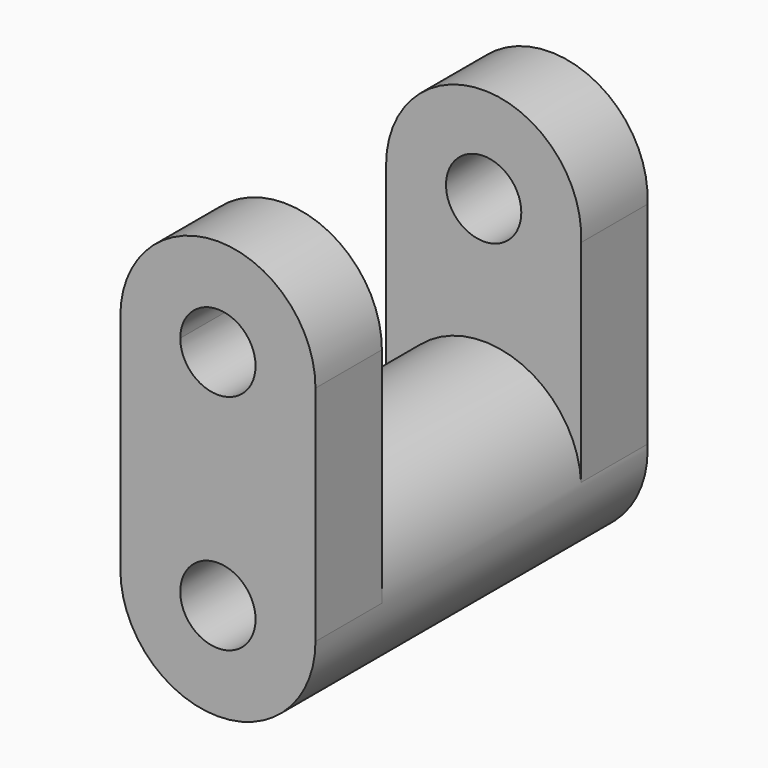
from build123d import *

# Parameters (mm, degrees)
F0_R     = 29.837596
F1_DEPTH = 127
F3_DEPTH = 25.4
F5_DEPTH = 25.4
F6_R     = 11.514098
F7_DEPTH = 249.174


with BuildPart() as f1:
    # F0 (on Front) → F1 (new body)
    with BuildSketch(Plane.XZ):
        with Locations((0, -34.119722)):
            Circle(F0_R)
    extrude(amount=F1_DEPTH)

    # F2 (on face) → F3 (join)
    with BuildSketch(Plane.XZ.offset(127)):
        with BuildLine():
            Line((-11.514098, -34.119722), (0, -34.119722))
            Line((0, -34.119722), (11.514098, -34.119722))
            ThreePointArc((11.514098, -34.119722), (0, -22.605623), (-11.514098, -34.119722))
        make_face()
        with BuildLine():
            Line((-29.837596, -34.119722), (-11.514098, -34.119722))
            ThreePointArc((-11.514098, -34.119722), (0, -22.605623), (11.514098, -34.119722))
            Line((11.514098, -34.119722), (29.837596, -34.119722))
            ThreePointArc((29.837596, -34.119722), (0, -4.282125), (-29.837596, -34.119722))
        make_face()
        with BuildLine():
            Line((-29.837596, 34.119722), (-29.837596, -34.119722))
            ThreePointArc((-29.837596, -34.119722), (0, -4.282125), (29.837596, -34.119722))
            Line((29.837596, -34.119722), (29.837596, 34.119722))
            ThreePointArc((29.837596, 34.119722), (0, 63.957318), (-29.837596, 34.119722))
        make_face()
        with BuildLine():
            ThreePointArc((11.514098, 34.119722), (0, 22.605623), (-11.514098, 34.119722))
            ThreePointArc((-11.514098, 34.119722), (0, 45.63382), (11.514098, 34.119722))
        make_face(mode=Mode.SUBTRACT)
    extrude(amount=-F3_DEPTH)

    # F4 (on face) → F5 (join)
    with BuildSketch(Plane(origin=(0, 0, 0), x_dir=(-1, 0, 0), z_dir=(0, 1, 0))):
        with BuildLine():
            Line((-29.798884, -34.119722), (0, -34.119722))
            Line((0, -34.119722), (29.416961, -34.119722))
            Line((29.416961, -34.119722), (29.837596, -34.119722))
            Line((29.837596, -34.119722), (29.837596, -29.127271))
            Line((29.837596, -29.127271), (29.837596, 33.523746))
            ThreePointArc((29.837596, 33.523746), (-0.759963, 63.351663), (-29.798884, 32.004312))
            Line((-29.798884, 32.004312), (-29.798884, -34.119722))
        make_face()
    extrude(amount=-F5_DEPTH)

    # F6 (on face) → F7 (cut)
    with BuildSketch(Plane.XZ.offset(127)):
        with Locations((0, 34.119722)):
            Circle(F6_R)
        with Locations((0, -34.119722)):
            Circle(F6_R)
    extrude(amount=-F7_DEPTH, mode=Mode.SUBTRACT)


solid = f1.part
